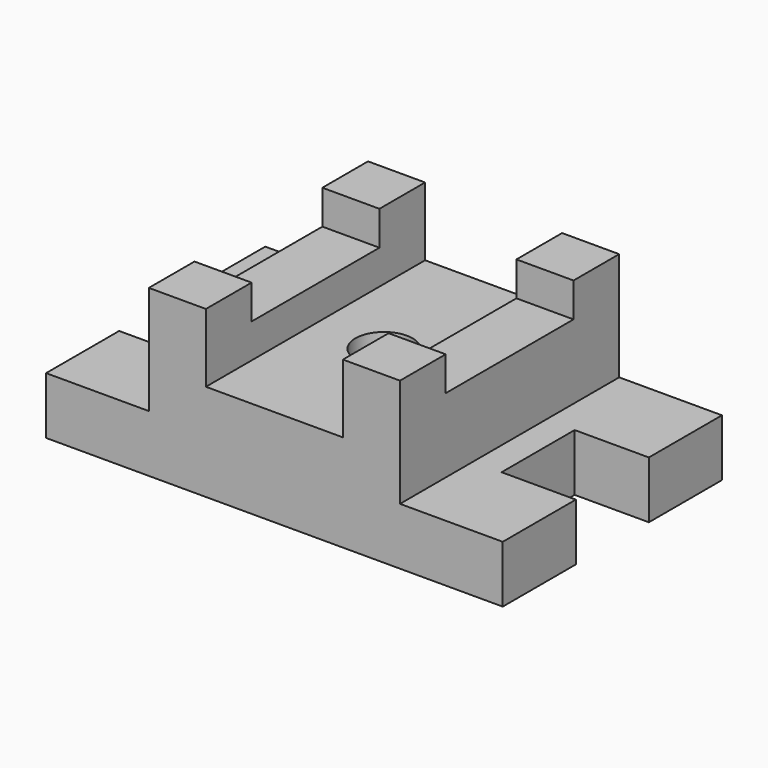
from build123d import *

# Parameters (mm, degrees)
F1_DEPTH = 31.75
F0_R     = 15.875
F2_DEPTH = 53.975
F0_W     = 31.75
F0_H     = 31.75
F3_DEPTH = 92.075
F0_H_2   = 88.9
F4_DEPTH = 73.025


with BuildPart() as f1:
    # F0 (on Top) → F1 (new body)
    with BuildSketch(Plane.XY):
        Polygon((-159.950046, 12.508434), (-159.950046, -38.291566), (-102.800046, -38.291566), (-102.800046, -6.541566), (-102.800046, 82.358434), (-102.800046, 114.108434), (-159.950046, 114.108434), (-159.950046, 63.308434), (-118.675046, 63.308434), (-118.675046, 12.508434), align=None)
        Polygon((36.899954, -6.541566), (36.899954, -38.291566), (94.049954, -38.291566), (94.049954, 12.508434), (52.774954, 12.508434), (52.774954, 63.308434), (94.049954, 63.308434), (94.049954, 114.108434), (36.899954, 114.108434), (36.899954, 82.358434), align=None)
    extrude(amount=F1_DEPTH)



with BuildPart() as f2:
    # F0 (on Top) → F2 (new body)
    with BuildSketch(Plane.XY):
        Polygon((-71.050046, -6.541566), (-71.050046, -38.291566), (5.149954, -38.291566), (5.149954, -6.541566), (5.149954, 82.358434), (5.149954, 114.108434), (-71.050046, 114.108434), (-71.050046, 82.358434), align=None)
        with Locations((-32.950046, 37.908434)):
            Circle(F0_R, mode=Mode.SUBTRACT)
    extrude(amount=F2_DEPTH)


with BuildPart() as f1_1:
    add(f1.part)

    add(f2.part)  # F3 merges F2
    # F0 (on Top) → F3 (join)
    with BuildSketch(Plane.XY):
        with Locations((-86.925046, 98.233434)):
            Rectangle(F0_W, F0_H)
        with Locations((21.024954, 98.233434)):
            Rectangle(F0_W, F0_H)
        with Locations((-86.925046, -22.416566)):
            Rectangle(F0_W, F0_H)
        with Locations((21.024954, -22.416566)):
            Rectangle(F0_W, F0_H)
    extrude(amount=F3_DEPTH)

    # F0 (on Top) → F4 (join)
    with BuildSketch(Plane.XY):
        with Locations((-86.925046, 37.908434)):
            Rectangle(F0_W, F0_H_2)
        with Locations((21.024954, 37.908434)):
            Rectangle(F0_W, F0_H_2)
    extrude(amount=F4_DEPTH)


solid = f1_1.part
